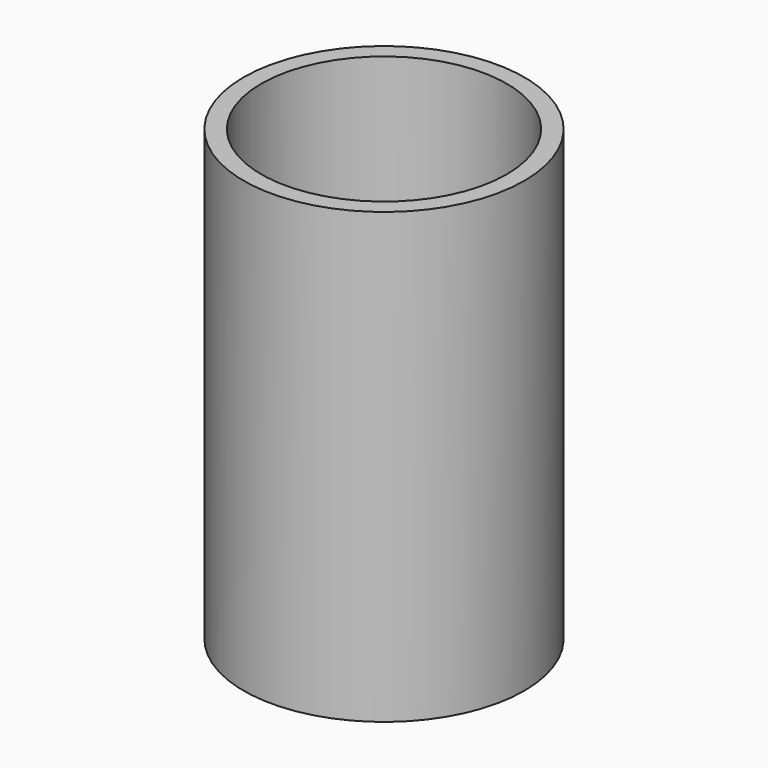
from build123d import *

# Parameters (mm, degrees)
F0_R     = 20
F1_DEPTH = 64
F2_R     = 17.5
F3_DEPTH = 40


with BuildPart() as f1:
    # F0 (on Top) → F1 (new body)
    with BuildSketch(Plane.XY):
        Circle(F0_R)
    extrude(amount=-F1_DEPTH)

    # F2 (on face) → F3 (cut)
    with BuildSketch(Plane.XY):
        Circle(F2_R)
    extrude(amount=-F3_DEPTH, mode=Mode.SUBTRACT)


solid = f1.part
